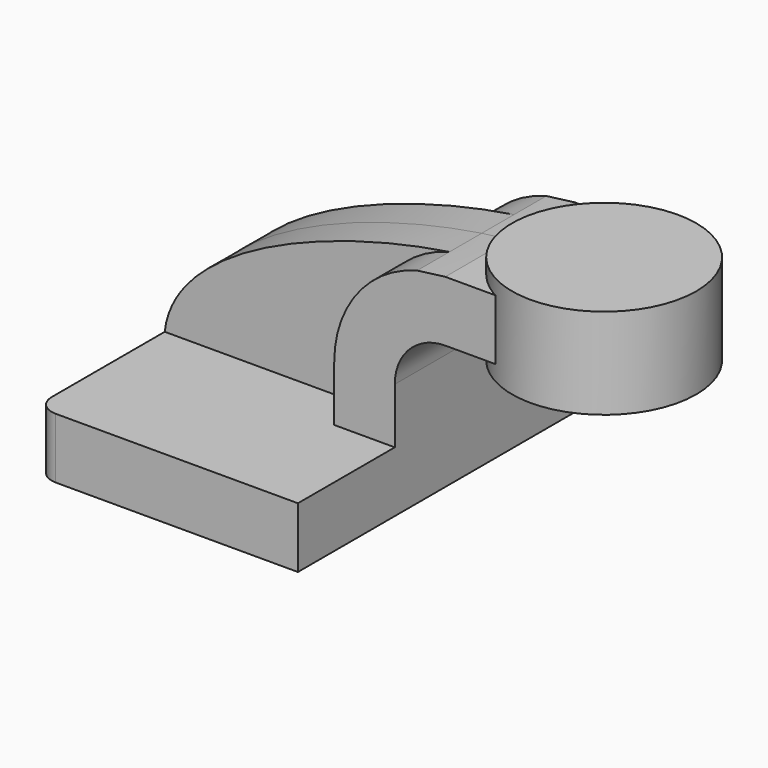
from build123d import *

# Parameters (mm, degrees)
F1_DEPTH = 63.5
F0_W     = 21.8106865818
F0_H     = 19.0499988828
F2_DEPTH = 25.4
F3_DEPTH = 12.7
F5_R     = 6.35


with BuildPart() as f1:
    # F0 (on Front) → F1 (new body, symmetric)
    with BuildSketch(Plane.XZ):
        Polygon((22.2250011172, 9.525), (-41.275, 9.525), (-41.275, -9.525), (41.275, -9.525), (41.275, 9.525), align=None)
    extrude(amount=F1_DEPTH, both=True)

    # F0 (on Front) → F2 (join, symmetric)
    with BuildSketch(Plane.XZ):
        with BuildLine():
            Line((22.2250011172, 27.0002), (22.2250011172, 9.525))
            Line((22.2250011172, 9.525), (41.275, 9.525))
            Line((41.275, 9.525), (41.275, 27.0002))
            ThreePointArc((41.275, 27.0002), (45.9246798487, 38.2255201513), (57.15, 42.8752))
            Line((57.15, 42.8752), (65.0157099766, 42.8752))
            Line((65.0157099766, 42.8752), (65.0157099766, 61.9251988828))
            Line((65.0157099766, 61.9251988828), (57.15, 61.9251988828))
            add(Edge.make_bspline(
                [(48.3155460032, 60.7893694119), (51.332373107, 61.2483431533), (54.286270029, 61.6277105036), (57.15, 61.9251988828)],
                knots=[103.3574007892, 103.3574007892, 103.3574007892, 103.3574007892, 111.5045356385, 111.5045356385, 111.5045356385, 111.5045356385], degree=3))
            ThreePointArc((48.3155460032, 60.7893694119), (29.5067472705, 48.34513208), (22.2250011172, 27.0002))
        make_face()
        with Locations((75.9210532675, 52.4001994414)):
            Rectangle(F0_W, F0_H)
    extrude(amount=F2_DEPTH, both=True)

    # F0 (on Front) → F3 (join, symmetric)
    with BuildSketch(Plane.XZ):
        with BuildLine():
            add(Edge.make_bspline(
                [(-41.275, 9.525), (-38.3577020942, 36.3318382761), (10.043022736, 54.9666680795), (48.3155460032, 60.7893694119)],
                knots=[0, 0, 0, 0, 103.3574007892, 103.3574007892, 103.3574007892, 103.3574007892], degree=3))
            Line((-41.275, 9.525), (22.2250011172, 9.525))
            Line((22.2250011172, 9.525), (22.2250011172, 27.0002))
            ThreePointArc((22.2250011172, 27.0002), (29.5067472705, 48.34513208), (48.3155460032, 60.7893694119))
        make_face()
    extrude(amount=F3_DEPTH, both=True)

    # F5
    f5_edges = [f1.edges().sort_by_distance(p)[0] for p in [
        (41.275, 63.5, 0),
        (-41.275, 63.5, 0),
        (-41.275, -63.5, 0),
    ]]
    fillet(f5_edges, radius=F5_R)


with BuildPart() as f4:
    # F0 (on Front) → F4 (revolve)
    with BuildSketch(Plane.XZ):
        Polygon((86.8263965584, 66.675), (86.8263965584, 61.9251988828), (86.8263965584, 42.8752), (86.8263965584, 38.1), (115.8157099766, 38.1), (115.8157099766, 66.675), align=None)
    revolve(axis=Axis((86.8263965584, 0, 52.3875), (0, 0, 1)))


solid = Compound([f1.part, f4.part])
